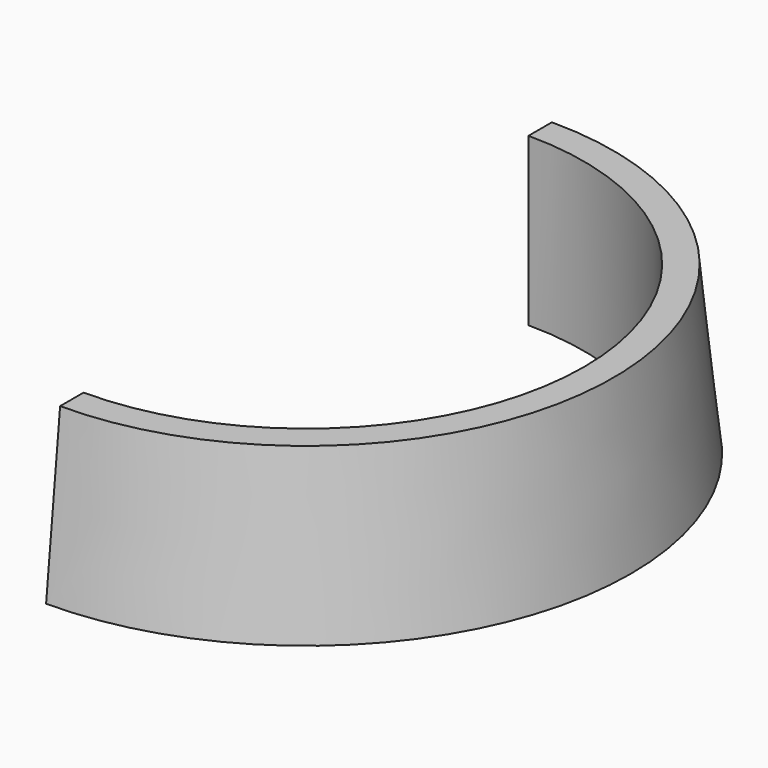
from build123d import *

# Parameters (mm, degrees)
F0_R     = 18.54835
F1_DEPTH = 9.525
F1_TAPER = 6
F3_DEPTH = 25.4


with BuildPart() as f1:
    # F0 (on Top) → F1 (new body)
    with BuildSketch(Plane.XY):
        Circle(F0_R)
    extrude(amount=F1_DEPTH, taper=F1_TAPER)

    # F2 (on face) → F3 (cut)
    with BuildSketch(Plane.XY.offset(9.525)):
        with BuildLine():
            ThreePointArc((15.875, 0), (11.2253201513, 11.2253201513), (0, 15.875))
            Line((0, 15.875), (0, -15.875))
            ThreePointArc((0, -15.875), (11.2253201513, -11.2253201513), (15.875, 0))
        make_face()
        with BuildLine():
            Line((0, -15.875), (0, 15.875))
            ThreePointArc((0, 15.875), (-15.875, 0), (0, -15.875))
        make_face()
        with BuildLine():
            Line((0, 15.875), (0, 17.5472321591))
            ThreePointArc((0, 17.5472321591), (-17.5472321591, 0), (0, -17.5472321591))
            Line((0, -17.5472321591), (0, -15.875))
            ThreePointArc((0, -15.875), (-15.875, 0), (0, 15.875))
        make_face()
        with BuildLine():
            ThreePointArc((0, -17.5472321591), (-17.5472321591, 0), (0, 17.5472321591))
            Line((0, 17.5472321591), (0, 24.4940146804))
            Line((0, 24.4940146804), (-20.4020645469, 24.4940146804))
            Line((-20.4020645469, 24.4940146804), (-20.4020645469, -25.3320317715))
            Line((-20.4020645469, -25.3320317715), (0, -25.3320317715))
            Line((0, -25.3320317715), (0, -17.5472321591))
        make_face()
    extrude(amount=-F3_DEPTH, mode=Mode.SUBTRACT)


solid = f1.part
